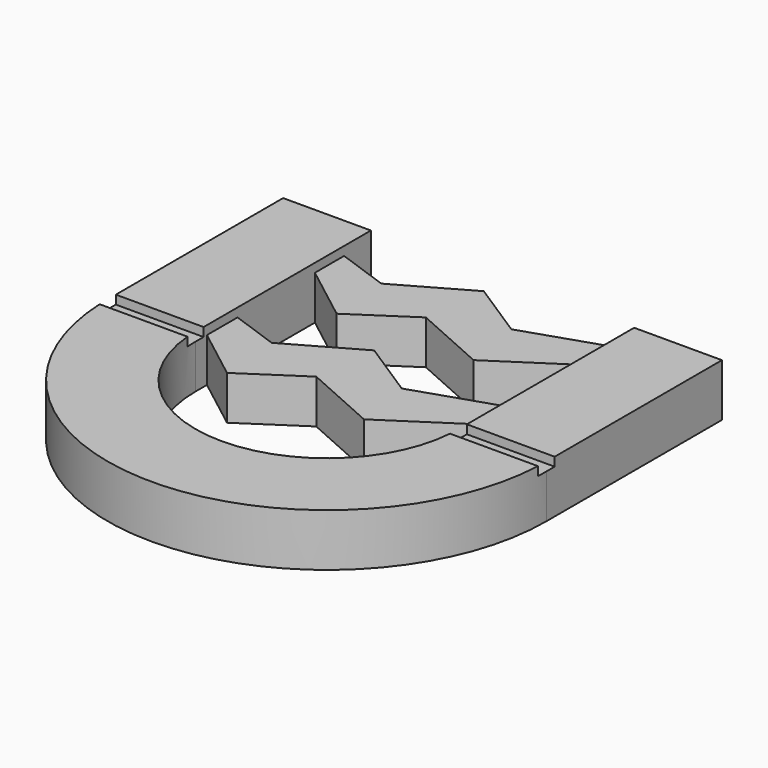
from build123d import *

# Parameters (mm, degrees)
F1_DEPTH = 3.048
F3_DEPTH = 2.54
F4_W     = 29.287648
F4_H     = 1.191522
F5_DEPTH = 0.508


with BuildPart() as f1:
    # F0 (on Top) → F1 (new body)
    with BuildSketch(Plane.XY):
        with BuildLine():
            Line((12.7, 0), (12.7, 12.7))
            Line((12.7, 12.7), (7.62, 12.7))
            Line((7.62, 12.7), (7.62, 0))
            ThreePointArc((7.62, 0), (0, -7.62), (-7.62, 0))
            Line((-7.62, 0), (-7.62, 12.7))
            Line((-7.62, 12.7), (-12.7, 12.7))
            Line((-12.7, 12.7), (-12.7, 0))
            ThreePointArc((-12.7, 0), (0, -12.7), (12.7, 0))
        make_face()
    extrude(amount=F1_DEPTH)

    # F2 (on Top) → F3 (join)
    with BuildSketch(Plane.XY):
        Polygon((-4.612858, 9.695881), (-8.65593, 11.129335), (-8.692686, 9.47535), (-4.351111, 6.134733), (-0.97243, 8.36986), (3.321907, 6.452318), (9.611405, 10.578007), (8.770715, 11.859614), (2.770109, 9.877271), (-0.53303, 12.011459), align=None)
        Polygon((-4.860972, 2.074731), (-8.904044, 3.508184), (-8.940799, 1.8542), (-4.599224, -1.486418), (-1.220543, 0.74871), (3.073793, -1.168832), (9.363291, 2.956856), (8.522601, 4.238464), (2.521995, 2.256121), (-0.781144, 4.390309), align=None)
    extrude(amount=F3_DEPTH)

    # F4 (on face) → F5 (cut)
    with BuildSketch(Plane.XY.offset(3.048)):
        Rectangle(F4_W, F4_H)
    extrude(amount=-F5_DEPTH, mode=Mode.SUBTRACT)


solid = f1.part
